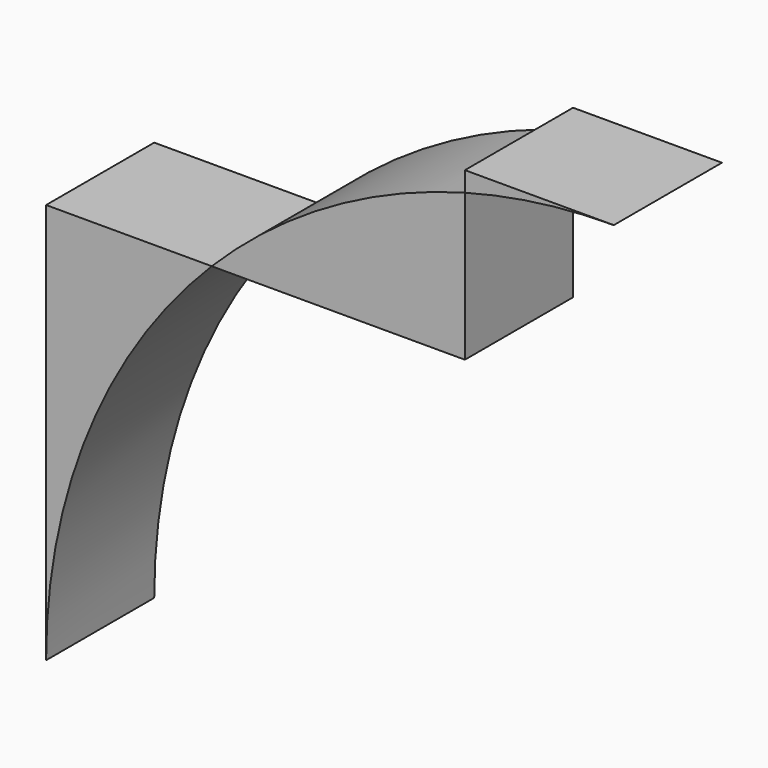
from build123d import *

# Parameters (mm, degrees)
F1_DEPTH = 25.4


with BuildPart() as f1:
    # F0 (on Front) → F1 (new body)
    with BuildSketch(Plane.XZ):
        with BuildLine():
            ThreePointArc((39.351564, 11.948726), (53.21597, 14.744967), (67.328436, 15.682541))
            Line((67.328436, 15.682541), (39.351564, 15.682541))
            Line((39.351564, 15.682541), (39.351564, 11.948726))
        make_face()
        with BuildLine():
            ThreePointArc((-39.351564, -90.997459), (-31.26324, -50.250635), (-8.22476, -15.682541))
            Line((-8.22476, -15.682541), (-39.351564, -15.682541))
            Line((-39.351564, -15.682541), (-39.351564, -90.997459))
        make_face()
        with BuildLine():
            Line((39.351564, -15.682541), (39.351564, 11.948726))
            ThreePointArc((39.351564, 11.948726), (13.751477, 1.252917), (-8.22476, -15.682541))
            Line((-8.22476, -15.682541), (39.351564, -15.682541))
        make_face()
    extrude(amount=F1_DEPTH)


solid = f1.part
